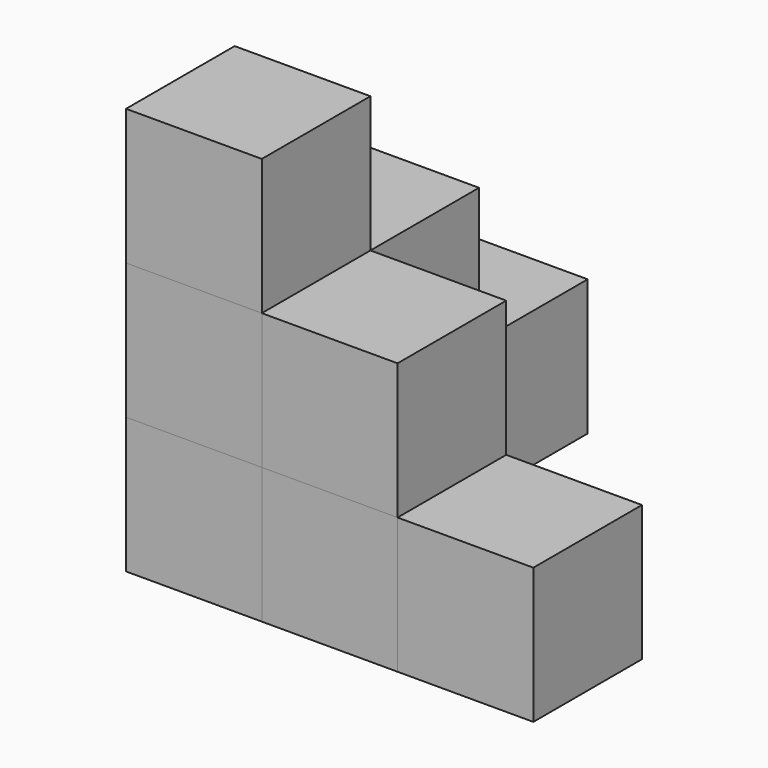
from build123d import *

# Parameters (mm, degrees)
BOX_W        = 10
BOX_H        = 10
BOX_DEPTH    = 10
BOX001_W     = 10
BOX001_H     = 10
BOX001_DEPTH = 10
BOX002_W     = 10
BOX002_H     = 10
BOX002_DEPTH = 10
BOX003_W     = 10
BOX003_H     = 10
BOX003_DEPTH = 10
BOX004_W     = 10
BOX004_H     = 10
BOX004_DEPTH = 10
BOX005_W     = 10
BOX005_H     = 10
BOX005_DEPTH = 10
BOX006_W     = 10
BOX006_H     = 10
BOX006_DEPTH = 10
BOX007_W     = 10
BOX007_H     = 10
BOX007_DEPTH = 10
BOX008_W     = 10
BOX008_H     = 10
BOX008_DEPTH = 10


with BuildPart() as nivell1_cub1:
    # Box → Box (new body)
    with BuildSketch(Plane(origin=(10, 0, 0), x_dir=(1, 0, 0), z_dir=(0, 0, 1))):
        with Locations((5, 5)):
            Rectangle(BOX_W, BOX_H)
    extrude(amount=BOX_DEPTH)


with BuildPart() as nivell1_cub2:
    # Box001 → Box001 (new body)
    with BuildSketch(Plane(origin=(20, 0, 0), x_dir=(1, 0, 0), z_dir=(0, 0, 1))):
        with Locations((5, 5)):
            Rectangle(BOX001_W, BOX001_H)
    extrude(amount=BOX001_DEPTH)


with BuildPart() as nivell1_cub3:
    # Box002 → Box002 (new body)
    with BuildSketch(Plane.XY):
        with Locations((5, 5)):
            Rectangle(BOX002_W, BOX002_H)
    extrude(amount=BOX002_DEPTH)


with BuildPart() as nivell1_cub4:
    # Box003 → Box003 (new body)
    with BuildSketch(Plane(origin=(0, 10, 0), x_dir=(1, 0, 0), z_dir=(0, 0, 1))):
        with Locations((5, 5)):
            Rectangle(BOX003_W, BOX003_H)
    extrude(amount=BOX003_DEPTH)


with BuildPart() as nivell1_cub5:
    # Box004 → Box004 (new body)
    with BuildSketch(Plane(origin=(0, 20, 0), x_dir=(1, 0, 0), z_dir=(0, 0, 1))):
        with Locations((5, 5)):
            Rectangle(BOX004_W, BOX004_H)
    extrude(amount=BOX004_DEPTH)


with BuildPart() as nivell2_cub1:
    # Box005 → Box005 (new body)
    with BuildSketch(Plane.XY.offset(10)):
        with Locations((5, 5)):
            Rectangle(BOX005_W, BOX005_H)
    extrude(amount=BOX005_DEPTH)


with BuildPart() as nivell2_cub2:
    # Box006 → Box006 (new body)
    with BuildSketch(Plane(origin=(0, 10, 10), x_dir=(1, 0, 0), z_dir=(0, 0, 1))):
        with Locations((5, 5)):
            Rectangle(BOX006_W, BOX006_H)
    extrude(amount=BOX006_DEPTH)


with BuildPart() as nivell2_cub3:
    # Box007 → Box007 (new body)
    with BuildSketch(Plane(origin=(10, 0, 10), x_dir=(1, 0, 0), z_dir=(0, 0, 1))):
        with Locations((5, 5)):
            Rectangle(BOX007_W, BOX007_H)
    extrude(amount=BOX007_DEPTH)


with BuildPart() as nivell3_cub1:
    # Box008 → Box008 (new body)
    with BuildSketch(Plane.XY.offset(20)):
        with Locations((5, 5)):
            Rectangle(BOX008_W, BOX008_H)
    extrude(amount=BOX008_DEPTH)


solid = Compound([nivell1_cub1.part, nivell1_cub2.part, nivell1_cub3.part, nivell1_cub4.part, nivell1_cub5.part, nivell2_cub1.part, nivell2_cub2.part, nivell2_cub3.part, nivell3_cub1.part])
